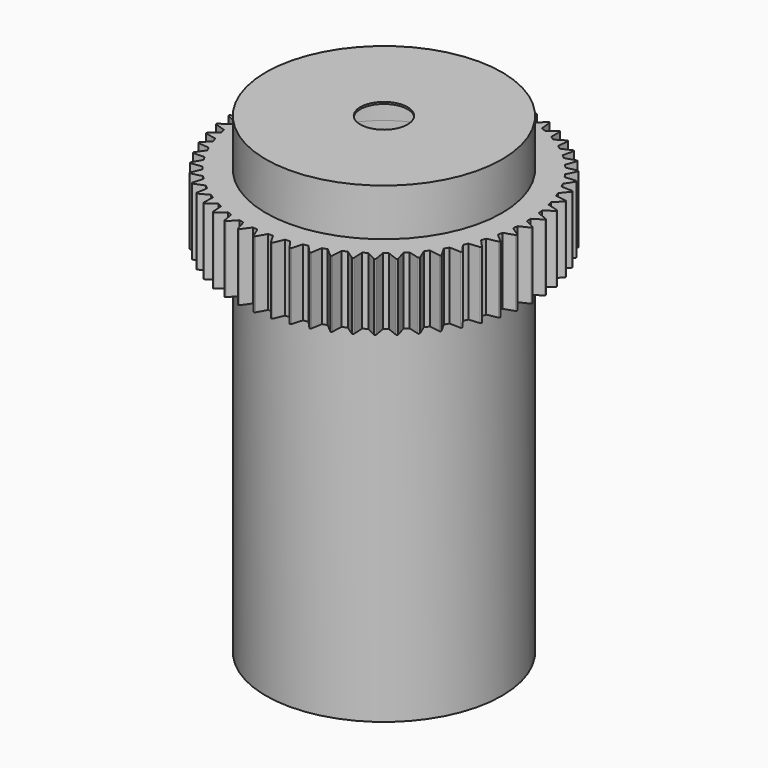
from build123d import *

# Parameters (mm, degrees)
F0_W      = 4.72821
F0_H      = 63.5
F3_DEPTH  = 20.32
F4_R      = 11.14679
F4_R_2    = 3.175
F5_DEPTH  = 0.254
F8_DEPTH  = 9
F9_R      = 11.14679
F10_DEPTH = 60.96


with BuildPart() as f1:
    # F0 (on Front) → F1 (revolve)
    with BuildSketch(Plane.XZ):
        with Locations((13.510895, 3.175)):
            Rectangle(F0_W, F0_H)
    revolve(axis=Axis((0, 0, -4.062993), (0, 0, -1)))

    # F2 (on face) → F3 (cut)
    with BuildSketch(Plane(origin=(0, 0, -28.575), x_dir=(1, 0, 0), z_dir=(0, 0, -1))):
        with BuildLine():
            ThreePointArc((8.334375, -11.68593), (8.267528, -11.230113), (8.072619, -10.812683))
            ThreePointArc((8.072619, -10.812683), (6.746875, -11.68593), (5.327749, -12.397434))
            ThreePointArc((5.327749, -12.397434), (7.112453, -13.230763), (8.334375, -11.68593))
        make_face()
        with BuildLine():
            ThreePointArc((5.327749, -12.397434), (6.746875, -11.68593), (8.072619, -10.812683))
            ThreePointArc((8.072619, -10.812683), (5.953125, -10.311115), (5.327749, -12.397434))
        make_face()
        with BuildLine():
            ThreePointArc((8.072619, 10.812683), (8.267528, 11.230113), (8.334375, 11.68593))
            ThreePointArc((8.334375, 11.68593), (7.112453, 13.230763), (5.327749, 12.397434))
            ThreePointArc((5.327749, 12.397434), (6.746875, 11.68593), (8.072619, 10.812683))
        make_face()
        with BuildLine():
            ThreePointArc((8.072619, 10.812683), (6.746875, 11.68593), (5.327749, 12.397434))
            ThreePointArc((5.327749, 12.397434), (5.953125, 10.311115), (8.072619, 10.812683))
        make_face()
        with BuildLine():
            ThreePointArc((-11.90625, 0), (-12.338674, 1.089016), (-13.400368, 1.584751))
            ThreePointArc((-13.400368, 1.584751), (-13.49375, 0), (-13.400368, -1.584751))
            ThreePointArc((-13.400368, -1.584751), (-12.338674, -1.089016), (-11.90625, 0))
        make_face()
        with BuildLine():
            ThreePointArc((-13.400368, -1.584751), (-13.49375, 0), (-13.400368, 1.584751))
            ThreePointArc((-13.400368, 1.584751), (-15.08125, 0), (-13.400368, -1.584751))
        make_face()
    extrude(amount=-F3_DEPTH, mode=Mode.SUBTRACT)

    # F4 (on face) → F5 (join)
    with BuildSketch(Plane.XY.offset(34.925)):
        Circle(F4_R)
        Circle(F4_R_2, mode=Mode.SUBTRACT)
    extrude(amount=-F5_DEPTH)

    # F7 (on offset) → F8 (join)
    with BuildSketch(Plane.XY.offset(28.575)):
        with BuildLine():
            ThreePointArc((19.005232, -1.305247), (19.038805, -0.653007), (19.05, 0))
            ThreePointArc((19.05, 0), (19.049688, 0.109068), (19.048751, 0.218132))
            ThreePointArc((19.048751, 0.218132), (19.042231, 0.543993), (19.030137, 0.869694))
            ThreePointArc((19.030137, 0.869694), (18.980119, 1.630204), (18.899721, 2.388104))
            ThreePointArc((18.899721, 2.388104), (18.856098, 2.711098), (18.806956, 3.033298))
            ThreePointArc((18.806956, 3.033298), (18.670573, 3.783148), (18.504304, 4.526944))
            ThreePointArc((18.504304, 4.526944), (18.424148, 4.842859), (18.338598, 5.157357))
            ThreePointArc((18.338598, 5.157357), (18.117627, 5.886774), (17.867656, 6.606768))
            ThreePointArc((17.867656, 6.606768), (17.75201, 6.911487), (17.631167, 7.214183))
            ThreePointArc((17.631167, 7.214183), (17.32849, 7.913656), (16.998075, 8.600462))
            ThreePointArc((16.998075, 8.600462), (16.848447, 8.890013), (16.693888, 9.176961))
            ThreePointArc((16.693888, 9.176961), (16.313449, 9.837372), (15.906898, 10.482037))
            ThreePointArc((15.906898, 10.482037), (15.72524, 10.752643), (15.538978, 11.020103))
            ThreePointArc((15.538978, 11.020103), (15.085738, 11.632842), (14.608351, 12.226962))
            ThreePointArc((14.608351, 12.226962), (14.397029, 12.475097), (14.181494, 12.719581))
            ThreePointArc((14.181494, 12.719581), (13.661361, 13.276661), (13.119361, 13.81249))
            ThreePointArc((13.119361, 13.81249), (12.881132, 14.034919), (12.639132, 14.25324))
            ThreePointArc((12.639132, 14.25324), (12.058887, 14.747398), (11.45934, 15.217951))
            ThreePointArc((11.45934, 15.217951), (11.197309, 15.411774), (10.932, 15.601086))
            ThreePointArc((10.932, 15.601086), (10.299208, 16.02588), (9.64993, 16.425022))
            ThreePointArc((9.64993, 16.425022), (9.367512, 16.587713), (9.082353, 16.745548))
            ThreePointArc((9.082353, 16.745548), (8.405262, 17.09544), (7.714717, 17.417969))
            ThreePointArc((7.714717, 17.417969), (7.415596, 17.547406), (7.114303, 17.671706))
            ThreePointArc((7.114303, 17.671706), (6.401741, 17.942135), (5.678932, 18.183845))
            ThreePointArc((5.678932, 18.183845), (5.367005, 18.278341), (5.053507, 18.367487))
            ThreePointArc((5.053507, 18.367487), (4.314763, 18.554927), (3.569113, 18.712668))
            ThreePointArc((3.569113, 18.712668), (3.248448, 18.770991), (2.926832, 18.823819))
            ThreePointArc((2.926832, 18.823819), (2.171536, 18.925827), (1.412765, 18.997542))
            ThreePointArc((1.412765, 18.997542), (1.087542, 19.018931), (0.762, 19.034754))
            ThreePointArc((0.762, 19.034754), (0, 19.05), (-0.762, 19.034754))
            ThreePointArc((-0.762, 19.034754), (-1.087542, 19.018931), (-1.412765, 18.997542))
            ThreePointArc((-1.412765, 18.997542), (-2.171536, 18.925827), (-2.926832, 18.823819))
            ThreePointArc((-2.926832, 18.823819), (-3.248448, 18.770991), (-3.569113, 18.712668))
            ThreePointArc((-3.569113, 18.712668), (-4.314763, 18.554927), (-5.053507, 18.367487))
            ThreePointArc((-5.053507, 18.367487), (-5.367005, 18.278341), (-5.678932, 18.183845))
            ThreePointArc((-5.678932, 18.183845), (-6.401741, 17.942135), (-7.114303, 17.671706))
            ThreePointArc((-7.114303, 17.671706), (-7.415596, 17.547406), (-7.714717, 17.417969))
            ThreePointArc((-7.714717, 17.417969), (-8.405262, 17.09544), (-9.082353, 16.745548))
            ThreePointArc((-9.082353, 16.745548), (-9.367512, 16.587713), (-9.64993, 16.425022))
            ThreePointArc((-9.64993, 16.425022), (-10.299208, 16.02588), (-10.932, 15.601086))
            ThreePointArc((-10.932, 15.601086), (-11.197309, 15.411774), (-11.45934, 15.217951))
            ThreePointArc((-11.45934, 15.217951), (-12.058887, 14.747398), (-12.639132, 14.25324))
            ThreePointArc((-12.639132, 14.25324), (-12.881132, 14.034919), (-13.119361, 13.81249))
            ThreePointArc((-13.119361, 13.81249), (-13.661361, 13.276661), (-14.181494, 12.719581))
            ThreePointArc((-14.181494, 12.719581), (-14.397029, 12.475097), (-14.608351, 12.226962))
            ThreePointArc((-14.608351, 12.226962), (-15.085738, 11.632842), (-15.538978, 11.020103))
            ThreePointArc((-15.538978, 11.020103), (-15.72524, 10.752643), (-15.906898, 10.482037))
            ThreePointArc((-15.906898, 10.482037), (-16.313449, 9.837372), (-16.693888, 9.176961))
            ThreePointArc((-16.693888, 9.176961), (-16.848447, 8.890013), (-16.998075, 8.600462))
            ThreePointArc((-16.998075, 8.600462), (-17.32849, 7.913656), (-17.631167, 7.214183))
            ThreePointArc((-17.631167, 7.214183), (-17.75201, 6.911487), (-17.867656, 6.606768))
            ThreePointArc((-17.867656, 6.606768), (-18.117627, 5.886774), (-18.338598, 5.157357))
            ThreePointArc((-18.338598, 5.157357), (-18.424148, 4.842859), (-18.504304, 4.526944))
            ThreePointArc((-18.504304, 4.526944), (-18.670573, 3.783148), (-18.806956, 3.033298))
            ThreePointArc((-18.806956, 3.033298), (-18.856098, 2.711098), (-18.899721, 2.388104))
            ThreePointArc((-18.899721, 2.388104), (-18.980119, 1.630204), (-19.030137, 0.869694))
            ThreePointArc((-19.030137, 0.869694), (-19.042231, 0.543993), (-19.048751, 0.218132))
            ThreePointArc((-19.048751, 0.218132), (-19.042231, -0.543993), (-19.005232, -1.305247))
            ThreePointArc((-19.005232, -1.305247), (-18.980119, -1.630204), (-18.949451, -1.954684))
            ThreePointArc((-18.949451, -1.954684), (-18.856098, -2.711098), (-18.732564, -3.463172))
            ThreePointArc((-18.732564, -3.463172), (-18.670573, -3.783148), (-18.603117, -4.102018))
            ThreePointArc((-18.603117, -4.102018), (-18.424148, -4.842859), (-18.215688, -5.575949))
            ThreePointArc((-18.215688, -5.575949), (-18.117627, -5.886774), (-18.014262, -6.195875))
            ThreePointArc((-18.014262, -6.195875), (-17.75201, -6.911487), (-17.461343, -7.616036))
            ThreePointArc((-17.461343, -7.616036), (-17.32849, -7.913656), (-17.190564, -8.20896))
            ThreePointArc((-17.190564, -8.20896), (-16.848447, -8.890013), (-16.479363, -9.556836))
            ThreePointArc((-16.479363, -9.556836), (-16.313449, -9.837372), (-16.14276, -10.115028))
            ThreePointArc((-16.14276, -10.115028), (-15.72524, -10.752643), (-15.282549, -11.373047))
            ThreePointArc((-15.282549, -11.373047), (-15.085738, -11.632842), (-14.884511, -11.889232))
            ThreePointArc((-14.884511, -11.889232), (-14.397029, -12.475097), (-13.886503, -13.040994))
            ThreePointArc((-13.886503, -13.040994), (-13.661361, -13.276661), (-13.43222, -13.508441))
            ThreePointArc((-13.43222, -13.508441), (-12.881132, -14.034919), (-12.309426, -14.538932))
            ThreePointArc((-12.309426, -14.538932), (-12.058887, -14.747398), (-11.804819, -14.951547))
            ThreePointArc((-11.804819, -14.951547), (-11.197309, -15.411774), (-10.571877, -15.847332))
            ThreePointArc((-10.571877, -15.847332), (-10.299208, -16.02588), (-10.023524, -16.199737))
            ThreePointArc((-10.023524, -16.199737), (-9.367512, -16.587713), (-8.696507, -16.949138))
            ThreePointArc((-8.696507, -16.949138), (-8.405262, -17.09544), (-8.111557, -17.236738))
            ThreePointArc((-8.111557, -17.236738), (-7.415596, -17.547406), (-6.707764, -17.829986))
            ThreePointArc((-6.707764, -17.829986), (-6.401741, -17.942135), (-6.093844, -18.049032))
            ThreePointArc((-6.093844, -18.049032), (-5.367005, -18.278341), (-4.631576, -18.478393))
            ThreePointArc((-4.631576, -18.478393), (-4.314763, -18.554927), (-3.996688, -18.62603))
            ThreePointArc((-3.996688, -18.62603), (-3.248448, -18.770991), (-2.495008, -18.885906))
            ThreePointArc((-2.495008, -18.885906), (-2.171536, -18.925827), (-1.847429, -18.960209))
            ThreePointArc((-1.847429, -18.960209), (-1.087542, -19.018931), (-0.325914, -19.047212))
            ThreePointArc((-0.325914, -19.047212), (0, -19.05), (0.325914, -19.047212))
            ThreePointArc((0.325914, -19.047212), (1.087542, -19.018931), (1.847429, -18.960209))
            ThreePointArc((1.847429, -18.960209), (2.171536, -18.925827), (2.495008, -18.885906))
            ThreePointArc((2.495008, -18.885906), (3.248448, -18.770991), (3.996688, -18.62603))
            ThreePointArc((3.996688, -18.62603), (4.314763, -18.554927), (4.631576, -18.478393))
            ThreePointArc((4.631576, -18.478393), (5.367005, -18.278341), (6.093844, -18.049032))
            ThreePointArc((6.093844, -18.049032), (6.401741, -17.942135), (6.707764, -17.829986))
            ThreePointArc((6.707764, -17.829986), (7.415596, -17.547406), (8.111557, -17.236738))
            ThreePointArc((8.111557, -17.236738), (8.405262, -17.09544), (8.696507, -16.949138))
            ThreePointArc((8.696507, -16.949138), (9.367512, -16.587713), (10.023524, -16.199737))
            ThreePointArc((10.023524, -16.199737), (10.299208, -16.02588), (10.571877, -15.847332))
            ThreePointArc((10.571877, -15.847332), (11.197309, -15.411774), (11.804819, -14.951547))
            ThreePointArc((11.804819, -14.951547), (12.058887, -14.747398), (12.309426, -14.538932))
            ThreePointArc((12.309426, -14.538932), (12.881132, -14.034919), (13.43222, -13.508441))
            ThreePointArc((13.43222, -13.508441), (13.661361, -13.276661), (13.886503, -13.040994))
            ThreePointArc((13.886503, -13.040994), (14.397029, -12.475097), (14.884511, -11.889232))
            ThreePointArc((14.884511, -11.889232), (15.085738, -11.632842), (15.282549, -11.373047))
            ThreePointArc((15.282549, -11.373047), (15.72524, -10.752643), (16.14276, -10.115028))
            ThreePointArc((16.14276, -10.115028), (16.313449, -9.837372), (16.479363, -9.556836))
            ThreePointArc((16.479363, -9.556836), (16.848447, -8.890013), (17.190564, -8.20896))
            ThreePointArc((17.190564, -8.20896), (17.32849, -7.913656), (17.461343, -7.616036))
            ThreePointArc((17.461343, -7.616036), (17.75201, -6.911487), (18.014262, -6.195875))
            ThreePointArc((18.014262, -6.195875), (18.117627, -5.886774), (18.215688, -5.575949))
            ThreePointArc((18.215688, -5.575949), (18.424148, -4.842859), (18.603117, -4.102018))
            ThreePointArc((18.603117, -4.102018), (18.670573, -3.783148), (18.732564, -3.463172))
            ThreePointArc((18.732564, -3.463172), (18.856098, -2.711098), (18.949451, -1.954684))
            ThreePointArc((18.949451, -1.954684), (18.980119, -1.630204), (19.005232, -1.305247))
        make_face()
        with BuildLine():
            ThreePointArc((19.048751, 0.218132), (19.049688, 0.109068), (19.05, 0))
            ThreePointArc((19.05, 0), (19.038805, -0.653007), (19.005232, -1.305247))
            Line((19.005232, -1.305247), (20.332542, -0.694717))
            ThreePointArc((20.332542, -0.694717), (20.406419, -0.582964), (20.339043, -0.467176))
            Line((20.339043, -0.467176), (19.048751, 0.218132))
        make_face()
        with BuildLine():
            ThreePointArc((18.899721, 2.388104), (18.980119, 1.630204), (19.030137, 0.869694))
            Line((19.030137, 0.869694), (20.279201, 1.627546))
            ThreePointArc((20.279201, 1.627546), (20.339858, 1.746992), (20.259722, 1.854345))
            Line((20.259722, 1.854345), (18.899721, 2.388104))
        make_face()
        with BuildLine():
            Line((20.153213, -2.782607), (18.949451, -1.954684))
            ThreePointArc((18.949451, -1.954684), (18.856098, -2.711098), (18.732564, -3.463172))
            Line((18.732564, -3.463172), (20.120818, -3.007924))
            ThreePointArc((20.120818, -3.007924), (20.206952, -2.905321), (20.153213, -2.782607))
        make_face()
        with BuildLine():
            ThreePointArc((18.504304, 4.526944), (18.670573, 3.783148), (18.806956, 3.033298))
            Line((18.806956, 3.033298), (19.96149, 3.928592))
            ThreePointArc((19.96149, 3.928592), (20.008135, 4.054174), (19.916284, 4.151692))
            Line((19.916284, 4.151692), (18.504304, 4.526944))
        make_face()
        with BuildLine():
            Line((19.704656, -5.061763), (18.603117, -4.102018))
            ThreePointArc((18.603117, -4.102018), (18.424148, -4.842859), (18.215688, -5.575949))
            Line((18.215688, -5.575949), (19.646787, -5.281918))
            ThreePointArc((19.646787, -5.281918), (19.744056, -5.189802), (19.704656, -5.061763))
        make_face()
        with BuildLine():
            ThreePointArc((17.867656, 6.606768), (18.117627, 5.886774), (18.338598, 5.157357))
            Line((18.338598, 5.157357), (19.38355, 6.178423))
            ThreePointArc((19.38355, 6.178423), (19.415576, 6.308503), (19.313207, 6.394916))
            Line((19.313207, 6.394916), (17.867656, 6.606768))
        make_face()
        with BuildLine():
            Line((18.999218, -7.27493), (18.014262, -6.195875))
            ThreePointArc((18.014262, -6.195875), (17.75201, -6.911487), (17.461343, -7.616036))
            Line((17.461343, -7.616036), (18.916631, -7.487054))
            ThreePointArc((18.916631, -7.487054), (19.023766, -7.406627), (18.999218, -7.27493))
        make_face()
        with BuildLine():
            ThreePointArc((16.998075, 8.600462), (17.32849, 7.913656), (17.631167, 7.214183))
            Line((17.631167, 7.214183), (18.552916, 8.347709))
            ThreePointArc((18.552916, 8.347709), (18.569905, 8.480591), (18.458353, 8.554771))
            Line((18.458353, 8.554771), (16.998075, 8.600462))
        make_face()
        with BuildLine():
            Line((18.046097, -9.393258), (17.190564, -8.20896))
            ThreePointArc((17.190564, -8.20896), (16.848447, -8.890013), (16.479363, -9.556836))
            Line((16.479363, -9.556836), (17.939868, -9.594585))
            ThreePointArc((17.939868, -9.594585), (18.055472, -9.526894), (18.046097, -9.393258))
        make_face()
        with BuildLine():
            ThreePointArc((15.906898, 10.482037), (16.313449, 9.837372), (16.693888, 9.176961))
            Line((16.693888, 9.176961), (17.480416, 10.408169))
            ThreePointArc((17.480416, 10.408169), (17.482147, 10.542122), (17.362866, 10.603103))
            Line((17.362866, 10.603103), (15.906898, 10.482037))
        make_face()
        with BuildLine():
            Line((16.857717, -11.389131), (16.14276, -10.115028))
            ThreePointArc((16.14276, -10.115028), (15.72524, -10.752643), (15.282549, -11.373047))
            Line((15.282549, -11.373047), (16.729231, -11.577036))
            ThreePointArc((16.729231, -11.577036), (16.851798, -11.522964), (16.857717, -11.389131))
        make_face()
        with BuildLine():
            ThreePointArc((14.608351, 12.226962), (15.085738, 11.632842), (15.538978, 11.020103))
            Line((15.538978, 11.020103), (16.180032, 12.332943))
            ThreePointArc((16.180032, 12.332943), (16.166482, 12.46622), (16.041028, 12.513207))
            Line((16.041028, 12.513207), (14.608351, 12.226962))
        make_face()
        with BuildLine():
            Line((15.449571, -13.236528), (14.884511, -11.889232))
            ThreePointArc((14.884511, -11.889232), (14.397029, -12.475097), (13.886503, -13.040994))
            Line((13.886503, -13.040994), (15.300503, -13.408562))
            ThreePointArc((15.300503, -13.408562), (15.428434, -13.368814), (15.449571, -13.236528))
        make_face()
        with BuildLine():
            ThreePointArc((13.119361, 13.81249), (13.661361, 13.276661), (14.181494, 12.719581))
            Line((14.181494, 12.719581), (14.668717, 14.096938))
            ThreePointArc((14.668717, 14.096938), (14.640062, 14.227802), (14.51007, 14.260182))
            Line((14.51007, 14.260182), (13.119361, 13.81249))
        make_face()
        with BuildLine():
            Line((13.840016, -14.911367), (13.43222, -13.508441))
            ThreePointArc((13.43222, -13.508441), (12.881132, -14.034919), (12.309426, -14.538932))
            Line((12.309426, -14.538932), (13.672309, -15.065287))
            ThreePointArc((13.672309, -15.065287), (13.803938, -15.040382), (13.840016, -14.911367))
        make_face()
        with BuildLine():
            ThreePointArc((11.45934, 15.217951), (12.058887, 14.747398), (12.639132, 14.25324))
            Line((12.639132, 14.25324), (12.966172, 15.677158))
            ThreePointArc((12.966172, 15.677158), (12.922787, 15.803903), (12.789951, 15.821253))
            Line((12.789951, 15.821253), (11.45934, 15.217951))
        make_face()
        with BuildLine():
            Line((12.050035, -16.391814), (11.804819, -14.951547))
            ThreePointArc((11.804819, -14.951547), (11.197309, -15.411774), (10.571877, -15.847332))
            Line((10.571877, -15.847332), (11.865876, -16.525614))
            ThreePointArc((11.865876, -16.525614), (11.999486, -16.515875), (12.050035, -16.391814))
        make_face()
        with BuildLine():
            ThreePointArc((9.64993, 16.425022), (10.299208, 16.02588), (10.932, 15.601086))
            Line((10.932, 15.601086), (11.094594, 17.053003))
            ThreePointArc((11.094594, 17.053003), (11.037044, 17.173976), (10.903096, 17.176071))
            Line((10.903096, 17.176071), (9.64993, 16.425022))
        make_face()
        with BuildLine():
            Line((10.102964, -17.658568), (10.023524, -16.199737))
            ThreePointArc((10.023524, -16.199737), (9.367512, -16.587713), (8.696507, -16.949138))
            Line((8.696507, -16.949138), (9.904753, -17.770503))
            ThreePointArc((9.904753, -17.770503), (10.038602, -17.776059), (10.102964, -17.658568))
        make_face()
        with BuildLine():
            ThreePointArc((7.714717, 17.417969), (8.405262, 17.09544), (9.082353, 16.745548))
            Line((9.082353, 16.745548), (9.07838, 18.206535))
            ThreePointArc((9.07838, 18.206535), (9.007416, 18.32016), (8.874102, 18.306972))
            Line((8.874102, 18.306972), (7.714717, 17.417969))
        make_face()
        with BuildLine():
            Line((8.024185, -18.695116), (8.111557, -17.236738))
            ThreePointArc((8.111557, -17.236738), (7.415596, -17.547406), (6.707764, -17.829986))
            Line((6.707764, -17.829986), (7.814506, -18.783727))
            ThreePointArc((7.814506, -18.783727), (7.94685, -18.804504), (8.024185, -18.695116))
        make_face()
        with BuildLine():
            ThreePointArc((5.678932, 18.183845), (6.401741, 17.942135), (7.114303, 17.671706))
            Line((7.114303, 17.671706), (6.943817, 19.122718))
            ThreePointArc((6.943817, 19.122718), (6.860362, 19.227512), (6.729421, 19.199214))
            Line((6.729421, 19.199214), (5.678932, 18.183845))
        make_face()
        with BuildLine():
            Line((5.840799, -19.487945), (6.093844, -18.049032))
            ThreePointArc((6.093844, -18.049032), (5.367005, -18.278341), (4.631576, -18.478393))
            Line((4.631576, -18.478393), (5.622386, -19.552076))
            ThreePointArc((5.622386, -19.552076), (5.751498, -19.587804), (5.840799, -19.487945))
        make_face()
        with BuildLine():
            ThreePointArc((3.569113, 18.712668), (4.314763, 18.554927), (5.053507, 18.367487))
            Line((5.053507, 18.367487), (4.718729, 19.789606))
            ThreePointArc((4.718729, 19.789606), (4.623874, 19.884204), (4.497011, 19.841164))
            Line((4.497011, 19.841164), (3.569113, 18.712668))
        make_face()
        with BuildLine():
            Line((3.581269, -20.026718), (3.996688, -18.62603))
            ThreePointArc((3.996688, -18.62603), (3.248448, -18.770991), (2.495008, -18.885906))
            Line((2.495008, -18.885906), (3.356969, -20.065535))
            ThreePointArc((3.356969, -20.065535), (3.481167, -20.115747), (3.581269, -20.026718))
        make_face()
        with BuildLine():
            ThreePointArc((1.412765, 18.997542), (2.171536, 18.925827), (2.926832, 18.823819))
            Line((2.926832, 18.823819), (2.432126, 20.198507))
            ThreePointArc((2.432126, 20.198507), (2.327105, 20.281676), (2.205976, 20.224455))
            Line((2.205976, 20.224455), (1.412765, 18.997542))
        make_face()
        with BuildLine():
            Line((1.275051, -20.304412), (1.847429, -18.960209))
            ThreePointArc((1.847429, -18.960209), (1.087542, -19.018931), (0.325914, -19.047212))
            Line((0.325914, -19.047212), (1.047789, -20.317408))
            ThreePointArc((1.047789, -20.317408), (1.165453, -20.38145), (1.275051, -20.304412))
        make_face()
        with BuildLine():
            ThreePointArc((-0.762, 19.034754), (0, 19.05), (0.762, 19.034754))
            Line((0.762, 19.034754), (0.113817, 20.344089))
            ThreePointArc((0.113817, 20.344089), (0, 20.414744), (-0.113817, 20.344089))
            Line((-0.113817, 20.344089), (-0.762, 19.034754))
        make_face()
        with BuildLine():
            Line((-1.047789, -20.317408), (-0.325914, -19.047212))
            ThreePointArc((-0.325914, -19.047212), (-1.087542, -19.018931), (-1.847429, -18.960209))
            Line((-1.847429, -18.960209), (-1.275051, -20.304412))
            ThreePointArc((-1.275051, -20.304412), (-1.165453, -20.38145), (-1.047789, -20.317408))
        make_face()
        with BuildLine():
            ThreePointArc((-2.926832, 18.823819), (-2.171536, 18.925827), (-1.412765, 18.997542))
            Line((-1.412765, 18.997542), (-2.205976, 20.224455))
            ThreePointArc((-2.205976, 20.224455), (-2.327105, 20.281676), (-2.432126, 20.198507))
            Line((-2.432126, 20.198507), (-2.926832, 18.823819))
        make_face()
        with BuildLine():
            Line((-3.356969, -20.065535), (-2.495008, -18.885906))
            ThreePointArc((-2.495008, -18.885906), (-3.248448, -18.770991), (-3.996688, -18.62603))
            Line((-3.996688, -18.62603), (-3.581269, -20.026718))
            ThreePointArc((-3.581269, -20.026718), (-3.481167, -20.115747), (-3.356969, -20.065535))
        make_face()
        with BuildLine():
            ThreePointArc((-5.053507, 18.367487), (-4.314763, 18.554927), (-3.569113, 18.712668))
            Line((-3.569113, 18.712668), (-4.497011, 19.841164))
            ThreePointArc((-4.497011, 19.841164), (-4.623874, 19.884204), (-4.718729, 19.789606))
            Line((-4.718729, 19.789606), (-5.053507, 18.367487))
        make_face()
        with BuildLine():
            Line((-5.622386, -19.552076), (-4.631576, -18.478393))
            ThreePointArc((-4.631576, -18.478393), (-5.367005, -18.278341), (-6.093844, -18.049032))
            Line((-6.093844, -18.049032), (-5.840799, -19.487945))
            ThreePointArc((-5.840799, -19.487945), (-5.751498, -19.587804), (-5.622386, -19.552076))
        make_face()
        with BuildLine():
            ThreePointArc((-7.114303, 17.671706), (-6.401741, 17.942135), (-5.678932, 18.183845))
            Line((-5.678932, 18.183845), (-6.729421, 19.199214))
            ThreePointArc((-6.729421, 19.199214), (-6.860362, 19.227512), (-6.943817, 19.122718))
            Line((-6.943817, 19.122718), (-7.114303, 17.671706))
        make_face()
        with BuildLine():
            Line((-7.814506, -18.783727), (-6.707764, -17.829986))
            ThreePointArc((-6.707764, -17.829986), (-7.415596, -17.547406), (-8.111557, -17.236738))
            Line((-8.111557, -17.236738), (-8.024185, -18.695116))
            ThreePointArc((-8.024185, -18.695116), (-7.94685, -18.804504), (-7.814506, -18.783727))
        make_face()
        with BuildLine():
            ThreePointArc((-9.082353, 16.745548), (-8.405262, 17.09544), (-7.714717, 17.417969))
            Line((-7.714717, 17.417969), (-8.874102, 18.306972))
            ThreePointArc((-8.874102, 18.306972), (-9.007416, 18.32016), (-9.07838, 18.206535))
            Line((-9.07838, 18.206535), (-9.082353, 16.745548))
        make_face()
        with BuildLine():
            Line((-9.904753, -17.770503), (-8.696507, -16.949138))
            ThreePointArc((-8.696507, -16.949138), (-9.367512, -16.587713), (-10.023524, -16.199737))
            Line((-10.023524, -16.199737), (-10.102964, -17.658568))
            ThreePointArc((-10.102964, -17.658568), (-10.038602, -17.776059), (-9.904753, -17.770503))
        make_face()
        with BuildLine():
            ThreePointArc((-10.932, 15.601086), (-10.299208, 16.02588), (-9.64993, 16.425022))
            Line((-9.64993, 16.425022), (-10.903096, 17.176071))
            ThreePointArc((-10.903096, 17.176071), (-11.037044, 17.173976), (-11.094594, 17.053003))
            Line((-11.094594, 17.053003), (-10.932, 15.601086))
        make_face()
        with BuildLine():
            Line((-11.865876, -16.525614), (-10.571877, -15.847332))
            ThreePointArc((-10.571877, -15.847332), (-11.197309, -15.411774), (-11.804819, -14.951547))
            Line((-11.804819, -14.951547), (-12.050035, -16.391814))
            ThreePointArc((-12.050035, -16.391814), (-11.999486, -16.515875), (-11.865876, -16.525614))
        make_face()
        with BuildLine():
            ThreePointArc((-12.639132, 14.25324), (-12.058887, 14.747398), (-11.45934, 15.217951))
            Line((-11.45934, 15.217951), (-12.789951, 15.821253))
            ThreePointArc((-12.789951, 15.821253), (-12.922787, 15.803903), (-12.966172, 15.677158))
            Line((-12.966172, 15.677158), (-12.639132, 14.25324))
        make_face()
        with BuildLine():
            Line((-13.672309, -15.065287), (-12.309426, -14.538932))
            ThreePointArc((-12.309426, -14.538932), (-12.881132, -14.034919), (-13.43222, -13.508441))
            Line((-13.43222, -13.508441), (-13.840016, -14.911367))
            ThreePointArc((-13.840016, -14.911367), (-13.803938, -15.040382), (-13.672309, -15.065287))
        make_face()
        with BuildLine():
            ThreePointArc((-14.181494, 12.719581), (-13.661361, 13.276661), (-13.119361, 13.81249))
            Line((-13.119361, 13.81249), (-14.51007, 14.260182))
            ThreePointArc((-14.51007, 14.260182), (-14.640062, 14.227802), (-14.668717, 14.096938))
            Line((-14.668717, 14.096938), (-14.181494, 12.719581))
        make_face()
        with BuildLine():
            Line((-15.300503, -13.408562), (-13.886503, -13.040994))
            ThreePointArc((-13.886503, -13.040994), (-14.397029, -12.475097), (-14.884511, -11.889232))
            Line((-14.884511, -11.889232), (-15.449571, -13.236528))
            ThreePointArc((-15.449571, -13.236528), (-15.428434, -13.368814), (-15.300503, -13.408562))
        make_face()
        with BuildLine():
            ThreePointArc((-15.538978, 11.020103), (-15.085738, 11.632842), (-14.608351, 12.226962))
            Line((-14.608351, 12.226962), (-16.041028, 12.513207))
            ThreePointArc((-16.041028, 12.513207), (-16.166482, 12.46622), (-16.180032, 12.332943))
            Line((-16.180032, 12.332943), (-15.538978, 11.020103))
        make_face()
        with BuildLine():
            Line((-16.729231, -11.577036), (-15.282549, -11.373047))
            ThreePointArc((-15.282549, -11.373047), (-15.72524, -10.752643), (-16.14276, -10.115028))
            Line((-16.14276, -10.115028), (-16.857717, -11.389131))
            ThreePointArc((-16.857717, -11.389131), (-16.851798, -11.522964), (-16.729231, -11.577036))
        make_face()
        with BuildLine():
            ThreePointArc((-16.693888, 9.176961), (-16.313449, 9.837372), (-15.906898, 10.482037))
            Line((-15.906898, 10.482037), (-17.362866, 10.603103))
            ThreePointArc((-17.362866, 10.603103), (-17.482147, 10.542122), (-17.480416, 10.408169))
            Line((-17.480416, 10.408169), (-16.693888, 9.176961))
        make_face()
        with BuildLine():
            Line((-17.939868, -9.594585), (-16.479363, -9.556836))
            ThreePointArc((-16.479363, -9.556836), (-16.848447, -8.890013), (-17.190564, -8.20896))
            Line((-17.190564, -8.20896), (-18.046097, -9.393258))
            ThreePointArc((-18.046097, -9.393258), (-18.055472, -9.526894), (-17.939868, -9.594585))
        make_face()
        with BuildLine():
            ThreePointArc((-17.631167, 7.214183), (-17.32849, 7.913656), (-16.998075, 8.600462))
            Line((-16.998075, 8.600462), (-18.458353, 8.554771))
            ThreePointArc((-18.458353, 8.554771), (-18.569905, 8.480591), (-18.552916, 8.347709))
            Line((-18.552916, 8.347709), (-17.631167, 7.214183))
        make_face()
        with BuildLine():
            Line((-18.916631, -7.487054), (-17.461343, -7.616036))
            ThreePointArc((-17.461343, -7.616036), (-17.75201, -6.911487), (-18.014262, -6.195875))
            Line((-18.014262, -6.195875), (-18.999218, -7.27493))
            ThreePointArc((-18.999218, -7.27493), (-19.023766, -7.406627), (-18.916631, -7.487054))
        make_face()
        with BuildLine():
            ThreePointArc((-18.338598, 5.157357), (-18.117627, 5.886774), (-17.867656, 6.606768))
            Line((-17.867656, 6.606768), (-19.313207, 6.394916))
            ThreePointArc((-19.313207, 6.394916), (-19.415576, 6.308503), (-19.38355, 6.178423))
            Line((-19.38355, 6.178423), (-18.338598, 5.157357))
        make_face()
        with BuildLine():
            Line((-19.646787, -5.281918), (-18.215688, -5.575949))
            ThreePointArc((-18.215688, -5.575949), (-18.424148, -4.842859), (-18.603117, -4.102018))
            Line((-18.603117, -4.102018), (-19.704656, -5.061763))
            ThreePointArc((-19.704656, -5.061763), (-19.744056, -5.189802), (-19.646787, -5.281918))
        make_face()
        with BuildLine():
            ThreePointArc((-18.806956, 3.033298), (-18.670573, 3.783148), (-18.504304, 4.526944))
            Line((-18.504304, 4.526944), (-19.916284, 4.151692))
            ThreePointArc((-19.916284, 4.151692), (-20.008135, 4.054174), (-19.96149, 3.928592))
            Line((-19.96149, 3.928592), (-18.806956, 3.033298))
        make_face()
        with BuildLine():
            Line((-20.120818, -3.007924), (-18.732564, -3.463172))
            ThreePointArc((-18.732564, -3.463172), (-18.856098, -2.711098), (-18.949451, -1.954684))
            Line((-18.949451, -1.954684), (-20.153213, -2.782607))
            ThreePointArc((-20.153213, -2.782607), (-20.206952, -2.905321), (-20.120818, -3.007924))
        make_face()
        with BuildLine():
            ThreePointArc((-19.030137, 0.869694), (-18.980119, 1.630204), (-18.899721, 2.388104))
            Line((-18.899721, 2.388104), (-20.259722, 1.854345))
            ThreePointArc((-20.259722, 1.854345), (-20.339858, 1.746992), (-20.279201, 1.627546))
            Line((-20.279201, 1.627546), (-19.030137, 0.869694))
        make_face()
        with BuildLine():
            Line((-20.332542, -0.694717), (-19.005232, -1.305247))
            ThreePointArc((-19.005232, -1.305247), (-19.042231, -0.543993), (-19.048751, 0.218132))
            Line((-19.048751, 0.218132), (-20.339043, -0.467176))
            ThreePointArc((-20.339043, -0.467176), (-20.406419, -0.582964), (-20.332542, -0.694717))
        make_face()
    extrude(amount=-F8_DEPTH)

    # F9 (on face) → F10 (cut)
    with BuildSketch(Plane(origin=(0, 0, -28.575), x_dir=(1, 0, 0), z_dir=(0, 0, -1))):
        Circle(F9_R)
    extrude(amount=-F10_DEPTH, mode=Mode.SUBTRACT)


solid = f1.part
